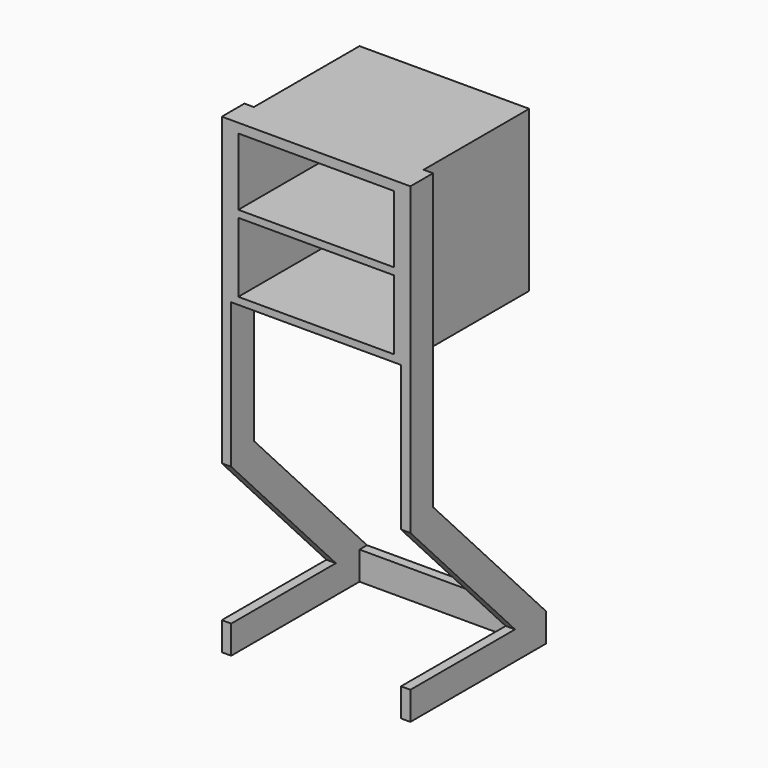
from build123d import *

# Parameters (mm, degrees)
F1_DEPTH  = 76.2
F5_DEPTH  = 25.4
F8_DEPTH  = 25.4
F10_W     = 457.2
F10_H     = 431.8
F10_W_2   = 419.1
F10_H_2   = 187.325
F11_DEPTH = 431.8
F12_W     = 76.2
F12_H     = 25.4
F13_DEPTH = 508


with BuildPart() as f1:
    # F0 (on Top) → F1 (new body)
    with BuildSketch(Plane.XY):
        Polygon((228.6, -228.6), (254, -228.6), (254, 228.6), (-254, 228.6), (-254, -228.6), (-228.6, -228.6), (-228.6, 203.2), (229.069446, 203.2), align=None)
    extrude(amount=F1_DEPTH)

    # F4 (on offset) → F5 (join)
    with BuildSketch(Plane.YZ.offset(254)):
        Polygon((123.634481, 76.2), (228.6, 76.2), (-152.4, 478.366667), (-152.4, 1244.6), (-228.6, 1244.6), (-228.6, 448.003064), align=None)
    extrude(amount=-F5_DEPTH)

    # F7 (on offset) → F8 (join)
    with BuildSketch(Plane.YZ.offset(-254)):
        Polygon((123.634481, 76.2), (228.6, 76.2), (-152.4, 478.366667), (-152.4, 1244.6), (-228.6, 1244.6), (-228.6, 448.003064), align=None)
    extrude(amount=F8_DEPTH)

    # F10 (on offset) → F11 (join)
    with BuildSketch(Plane.XZ.offset(228.6)):
        with Locations((0, 1054.1)):
            Rectangle(F10_W, F10_H)
        with Locations((0, 950.9125)):
            Rectangle(F10_W_2, F10_H_2, mode=Mode.SUBTRACT)
        with Locations((0, 1157.2875)):
            Rectangle(F10_W_2, F10_H_2, mode=Mode.SUBTRACT)
    extrude(amount=-F11_DEPTH)

    # F12 (on offset) → F13 (join)
    with BuildSketch(Plane.YZ.offset(254)):
        with Locations((-190.5, 1257.3)):
            Rectangle(F12_W, F12_H)
    extrude(amount=-F13_DEPTH)


solid = f1.part
